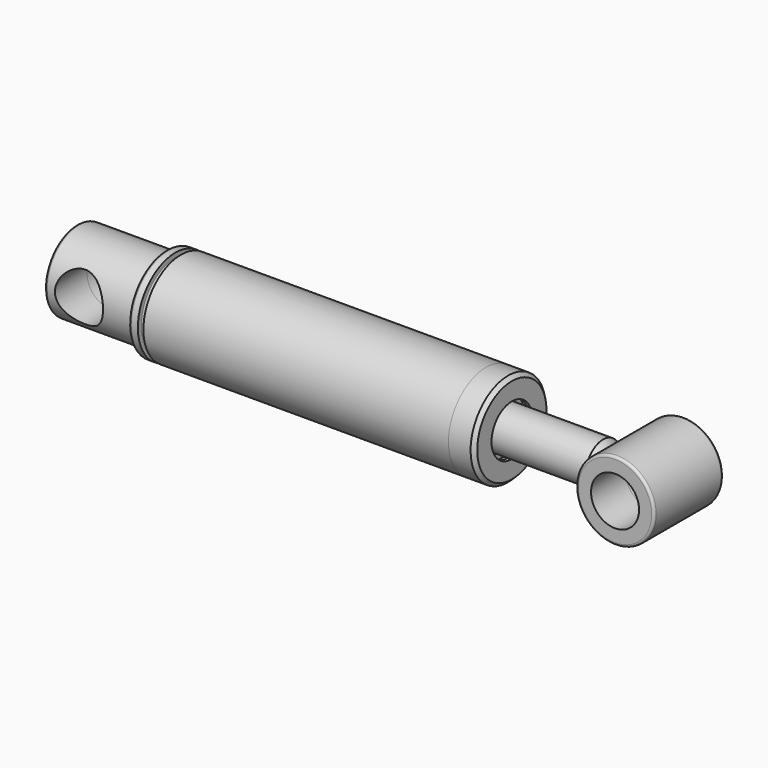
from build123d import *

# Parameters (mm, degrees)
F2_R           = 19.50625
F3_DEPTH       = 38.1010001
F3_DEPTH_BACK  = 38.1010001
F10_R          = 31.75
F10_R_2        = 19.50625
F11_DEPTH      = 35
F11_DEPTH_BACK = 35
F12_R          = 2


with BuildPart() as f1:
    # F0 (on Front) → F1 (revolve)
    with BuildSketch(Plane.XZ):
        with BuildLine():
            Line((-85, 0), (0, 0))
            Line((0, 0), (0, 31.225))
            ThreePointArc((0, 31.225), (-0.1464466094, 31.5785533906), (-0.5, 31.725))
            Line((-0.5, 31.725), (-1.7189242942, 31.725))
            Line((-1.7189242942, 31.725), (-2.4184038001, 31.3685973903))
            ThreePointArc((-2.4184038001, 31.3685973903), (-2.8089994259, 31.3839439343), (-3, 31.725))
            Line((-3, 31.725), (-3, 32.625))
            ThreePointArc((-3, 32.625), (-4.4142135624, 33.2107864376), (-5, 34.625))
            Line((-5, 34.625), (-5, 38.1))
            Line((-5, 38.1), (-10.25, 38.1))
            ThreePointArc((-10.25, 38.1), (-11.6642135624, 37.5142135624), (-12.25, 36.1))
            Line((-12.25, 36.1), (-12.25, 33.3))
            ThreePointArc((-12.25, 33.3), (-12.4843145751, 32.7343145751), (-13.05, 32.5))
            Line((-13.05, 32.5), (-83, 32.5))
            ThreePointArc((-83, 32.5), (-84.4142135624, 31.9142135624), (-85, 30.5))
            Line((-85, 30.5), (-85, 0))
        make_face()
    revolve(axis=Axis((-42.5, 0, 0), (1, 0, 0)))

    # F2 (on Front) → F3 (cut, two sides)
    with BuildSketch(Plane.XZ) as f3_sk:
        with Locations((-57.25, 0)):
            Circle(F2_R)
    extrude(amount=-F3_DEPTH, mode=Mode.SUBTRACT)
    extrude(f3_sk.sketch, amount=F3_DEPTH_BACK, mode=Mode.SUBTRACT)


with BuildPart() as f5:
    # F4 (on Front) → F5 (revolve)
    with BuildSketch(Plane.XZ):
        Polygon((3, 25), (0, 25), (0, 11.145), (0.5888972746, 10.125), (25.4111027254, 10.125), (26, 11.145), (31.45, 11.145), (31.45, 12.4), (33.75, 12.4), (33.75, 23.81), (14.25, 23.81), (14.25, 29.45), (7.9, 29.45), (7.9, 31.05), (6, 31.05), (3, 28.05), align=None)
    revolve(axis=Axis((27.4239368737, 0, 0), (1, 0, 0)))


with BuildPart() as f7:
    # F6 (on Front) → F7 (revolve)
    with BuildSketch(Plane.XZ):
        Polygon((33.75, 29.45), (33.75, 11.13), (48, 11.13), (48, 25), (45, 25), (45, 29.45), (43.4, 31.05), (40.1, 31.05), (40.1, 29.45), align=None)
    revolve(axis=Axis((52.8446149826, 0, 0), (1, 0, 0)))


with BuildPart() as f9:
    # F8 (on Front) → F9 (revolve)
    with BuildSketch(Plane.XZ):
        Polygon((0.5, 10.1339745962), (0.5, 0), (348, 0), (348, 11.4625), (342, 17.4625), (48, 17.4625), (48, 11.1), (20.5, 11.1), (20.3267949192, 11), (1, 11), align=None)
    revolve(axis=Axis((174.25, 0, 0), (-1, 0, 0)))


with BuildPart() as f11:
    # F10 (on Front) → F11 (new body, two sides)
    with BuildSketch(Plane.XZ) as f11_sk:
        with Locations((379.75, 0)):
            Circle(F10_R)
        with Locations((379.75, 0)):
            Circle(F10_R_2, mode=Mode.SUBTRACT)
    extrude(amount=F11_DEPTH)
    extrude(f11_sk.sketch, amount=-F11_DEPTH_BACK)

    # F12
    f12_edges = [f11.edges().sort_by_distance(p)[0] for p in [
        (348, 35, 0),
        (348, -35, 0),
    ]]
    fillet(f12_edges, radius=F12_R)


with BuildPart() as f14:
    # F13 (on Front) → F14 (revolve)
    with BuildSketch(Plane.XZ):
        with BuildLine():
            Line((-3, 32.625), (-3, 31.75))
            Line((-3, 31.75), (204.8334936491, 31.75))
            Line((204.8334936491, 31.75), (205.05, 31.875))
            Line((205.05, 31.875), (217.0102327662, 31.875))
            Line((217.0102327662, 31.875), (218.45, 32.70625))
            Line((218.45, 32.70625), (240.81875, 32.70625))
            Line((240.81875, 32.70625), (242.35, 34.2375))
            Line((242.35, 34.2375), (247, 34.2375))
            Line((247, 34.2375), (247, 38.1))
            Line((247, 38.1), (-0.5, 38.1))
            Line((-0.5, 38.1), (-0.5, 35.125))
            ThreePointArc((-0.5, 35.125), (-1.232233047, 33.357233047), (-3, 32.625))
        make_face()
    revolve(axis=Axis((40.4001772404, 0, 0), (1, 0, 0)))


with BuildPart() as f16:
    # F15 (on Front) → F16 (revolve)
    with BuildSketch(Plane.XZ):
        Polygon((265, 38.1), (247, 38.1), (247, 33.825), (242.5, 33.825), (242.5, 31.9125), (241, 31.9125), (237.6959107416, 33.6325), (223.993042463, 33.6325), (223, 31.9125), (215, 31.9125), (215, 29.1475), (211, 29.1475), (211, 31.9125), (206, 31.9125), (203, 28.9125), (203, 20.64), (254, 20.64), (254, 18.175), (260.15, 18.175), (260.15, 22.225), (265, 22.225), (265, 20.6375), (268, 20.6375), (268, 35.1), align=None)
    revolve(axis=Axis((138.0018591881, 0, 0), (1, 0, 0)))


solid = Compound([f1.part, f5.part, f7.part, f9.part, f11.part, f14.part, f16.part])
